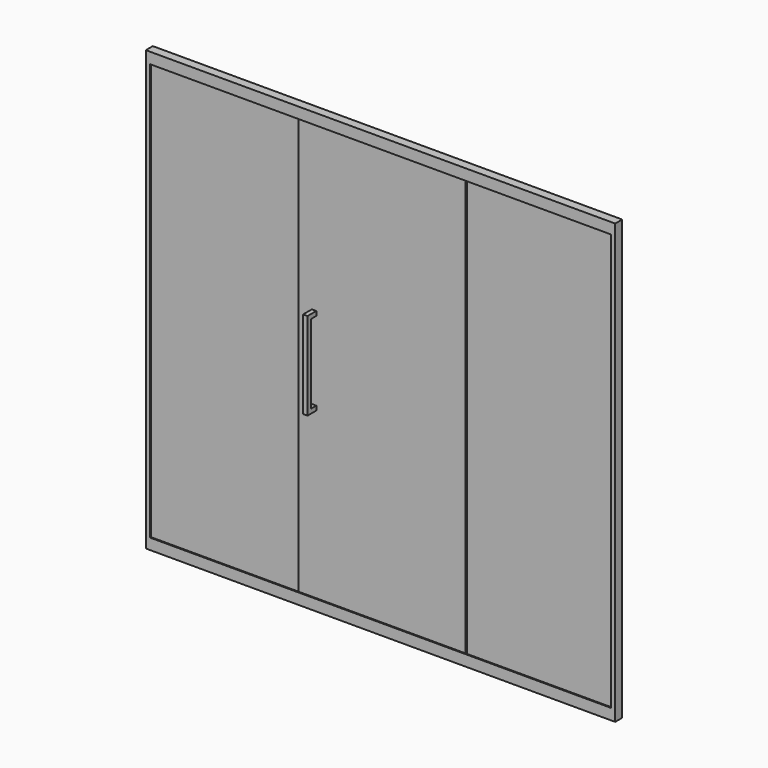
from build123d import *

# Parameters (mm, degrees)
F0_W          = 2140
F0_H          = 2000
F0_W_2        = 700
F0_H_2        = 45
F0_W_3        = 30
F1_DEPTH      = 20
F1_DEPTH_BACK = 20
F2_DEPTH      = 15
F2_DEPTH_BACK = 15
F3_START      = -3
F0_W_4        = 670
F0_H_3        = 1900
F3_DEPTH      = 8
F4_START      = 3
F4_DEPTH      = 8
F5_W          = 20
F5_H          = 20
F6_DEPTH      = 50
F7_START      = 30
F5_H_2        = 360
F7_DEPTH      = 20


with BuildPart() as f1:
    # F0 (on Front) → F1 (new body, two sides)
    with BuildSketch(Plane.XZ) as f1_sk:
        with Locations((1070, 1000)):
            Rectangle(F0_W, F0_H)
        Polygon((5, 5), (5, 1995), (690, 1995), (720, 1995), (1420, 1995), (1450, 1995), (2135, 1995), (2135, 5), (1450, 5), (1420, 5), (720, 5), (690, 5), align=None, mode=Mode.SUBTRACT)
        Polygon((690, 1995), (5, 1995), (5, 5), (690, 5), (690, 50), (20, 50), (20, 1950), (690, 1950), align=None)
        Polygon((2135, 1995), (1450, 1995), (1450, 1950), (2120, 1950), (2120, 50), (1450, 50), (1450, 5), (2135, 5), align=None)
        with Locations((1070, 1972.5)):
            Rectangle(F0_W_2, F0_H_2)
        with Locations((1070, 27.5)):
            Rectangle(F0_W_2, F0_H_2)
        with Locations((705, 1972.5)):
            Rectangle(F0_W_3, F0_H_2)
        with Locations((1435, 1972.5)):
            Rectangle(F0_W_3, F0_H_2)
        with Locations((705, 27.5)):
            Rectangle(F0_W_3, F0_H_2)
        with Locations((1435, 27.5)):
            Rectangle(F0_W_3, F0_H_2)
    extrude(amount=F1_DEPTH)
    extrude(f1_sk.sketch, amount=-F1_DEPTH_BACK)

    # F0 (on Front) → F2 (cut, two sides)
    with BuildSketch(Plane.XZ) as f2_sk:
        Polygon((690, 1995), (5, 1995), (5, 5), (690, 5), (690, 50), (20, 50), (20, 1950), (690, 1950), align=None)
        with Locations((705, 1972.5)):
            Rectangle(F0_W_3, F0_H_2)
        with Locations((1070, 1972.5)):
            Rectangle(F0_W_2, F0_H_2)
        with Locations((1435, 1972.5)):
            Rectangle(F0_W_3, F0_H_2)
        Polygon((2135, 1995), (1450, 1995), (1450, 1950), (2120, 1950), (2120, 50), (1450, 50), (1450, 5), (2135, 5), align=None)
        with Locations((705, 27.5)):
            Rectangle(F0_W_3, F0_H_2)
        with Locations((1070, 27.5)):
            Rectangle(F0_W_2, F0_H_2)
        with Locations((1435, 27.5)):
            Rectangle(F0_W_3, F0_H_2)
    extrude(amount=F2_DEPTH, mode=Mode.SUBTRACT)
    extrude(f2_sk.sketch, amount=-F2_DEPTH_BACK, mode=Mode.SUBTRACT)


with BuildPart() as f3:
    # F0 (on Front) → F3 (new body)
    with BuildSketch(Plane.XZ.offset(F3_START)):
        with Locations((355, 1000)):
            Rectangle(F0_W_4, F0_H_3)
        Polygon((690, 1995), (5, 1995), (5, 5), (690, 5), (690, 50), (20, 50), (20, 1950), (690, 1950), align=None)
        with Locations((705, 1972.5)):
            Rectangle(F0_W_3, F0_H_2)
        with Locations((705, 1000)):
            Rectangle(F0_W_3, F0_H_3)
        with Locations((705, 27.5)):
            Rectangle(F0_W_3, F0_H_2)
    extrude(amount=-F3_DEPTH)


with BuildPart() as f3b:
    # F0 (on Front) → F3, piece 2 (new body)
    with BuildSketch(Plane.XZ.offset(F3_START)):
        with Locations((1785, 1000)):
            Rectangle(F0_W_4, F0_H_3)
        Polygon((2135, 1995), (1450, 1995), (1450, 1950), (2120, 1950), (2120, 50), (1450, 50), (1450, 5), (2135, 5), align=None)
        with Locations((1435, 1972.5)):
            Rectangle(F0_W_3, F0_H_2)
        with Locations((1435, 1000)):
            Rectangle(F0_W_3, F0_H_3)
        with Locations((1435, 27.5)):
            Rectangle(F0_W_3, F0_H_2)
    extrude(amount=-F3_DEPTH)


with BuildPart() as f4:
    # F0 (on Front) → F4 (new body)
    with BuildSketch(Plane.XZ.offset(F4_START)):
        with Locations((1070, 1972.5)):
            Rectangle(F0_W_2, F0_H_2)
        with Locations((1070, 1000)):
            Rectangle(F0_W_2, F0_H_3)
        with Locations((1435, 1972.5)):
            Rectangle(F0_W_3, F0_H_2)
        with Locations((1435, 1000)):
            Rectangle(F0_W_3, F0_H_3)
        with Locations((705, 1972.5)):
            Rectangle(F0_W_3, F0_H_2)
        with Locations((705, 1000)):
            Rectangle(F0_W_3, F0_H_3)
        with Locations((705, 27.5)):
            Rectangle(F0_W_3, F0_H_2)
        with Locations((1070, 27.5)):
            Rectangle(F0_W_2, F0_H_2)
        with Locations((1435, 27.5)):
            Rectangle(F0_W_3, F0_H_2)
    extrude(amount=F4_DEPTH)


with BuildPart() as f6:
    # F5 (on face) → F6 (new body)
    with BuildSketch(Plane.XZ.offset(11)):
        with Locations((760, 1190)):
            Rectangle(F5_W, F5_H)
    extrude(amount=F6_DEPTH)



with BuildPart() as f6b:
    # F5 (on face) → F6, piece 2 (new body)
    with BuildSketch(Plane.XZ.offset(11)):
        with Locations((760, 810)):
            Rectangle(F5_W, F5_H)
    extrude(amount=F6_DEPTH)


with BuildPart() as f6_1:
    add(f6.part)

    add(f6b.part)  # F7 merges F6b
    # F5 (on face) → F7 (join)
    with BuildSketch(Plane.XZ.offset(11).offset(F7_START)):
        with Locations((760, 1000)):
            Rectangle(F5_W, F5_H_2)
    extrude(amount=F7_DEPTH)


with BuildPart() as f9_1:
    # F9: instance of F6
    add(f6_1.part.mirror(Plane.XZ.offset(7)))


solid = Compound([f1.part, f3.part, f3b.part, f4.part, f6_1.part, f9_1.part])
